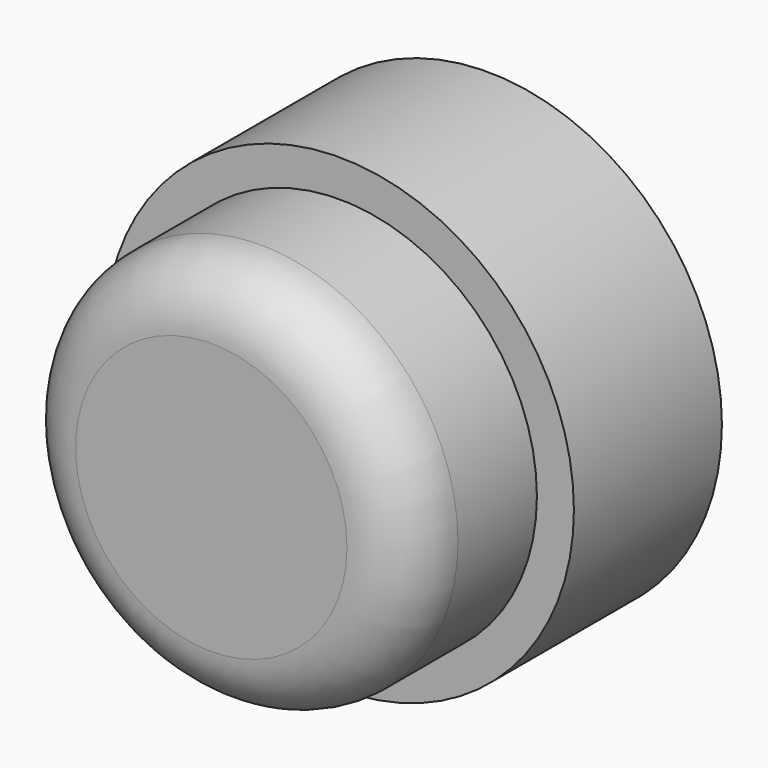
from build123d import *

# Parameters (mm, degrees)
SKETCH026_R     = 3.8
PAD009_DEPTH    = 3
SKETCH027_R     = 3.2
PAD010_DEPTH    = 2.6
FILLET_R        = 1
SKETCH029_R     = 2
POCKET013_DEPTH = 1


with BuildPart() as part:
    # Sketch026 → Pad009 (new body)
    with BuildSketch(Plane.XZ):
        with Locations((28.8, 9.2)):
            Circle(SKETCH026_R)
    extrude(amount=PAD009_DEPTH)

    # Sketch027 (on Face3 of Pad009) → Pad010 (join)
    with BuildSketch(Plane.XZ.offset(3)):
        with Locations((28.8, 9.2)):
            Circle(SKETCH027_R)
    extrude(amount=PAD010_DEPTH)

    # Fillet
    fillet_edges = [part.edges().sort_by_distance(p)[0] for p in [
        (25.6, -5.6, 9.2),
    ]]
    fillet(fillet_edges, radius=FILLET_R)

    # Sketch029 (on Face6 of Fillet) → Pocket013 (cut)
    with BuildSketch(Plane(origin=(0, 0, 0), x_dir=(1, 0, 0), z_dir=(0, 1, 0))):
        with Locations((28.8, -9.2)):
            Circle(SKETCH029_R)
    extrude(amount=-POCKET013_DEPTH, mode=Mode.SUBTRACT)


with BuildPart() as part_1:
    # Body003 placement: moved
    add(part.part.moved(Location((0, 1.1, 0))))


solid = part_1.part
